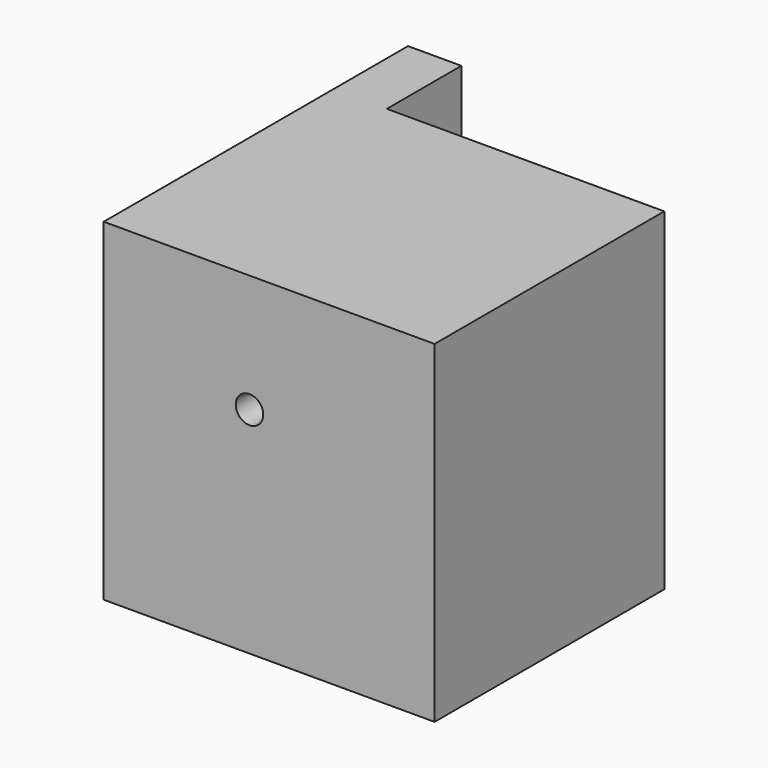
from build123d import *

# Parameters (mm, degrees)
F1_DEPTH = 50.8
F3_D     = 4.2


with BuildPart() as f1:
    # F0 (on Top) → F1 (new body)
    with BuildSketch(Plane.XY):
        Polygon((-108.0991402268, 14.2310541123), (-116.2496432662, 14.2310541123), (-116.2496432662, -43.835349381), (-65.739735961, -43.835349381), (-65.739735961, 0), (-108.0991402268, 0), align=None)
    extrude(amount=F1_DEPTH)

    # F3 (through all)
    with Locations(Plane.XZ.offset(43.835349381)):
        with Locations((-93.9946100116, 32.7801704407)):
            Hole(F3_D / 2)


solid = f1.part
